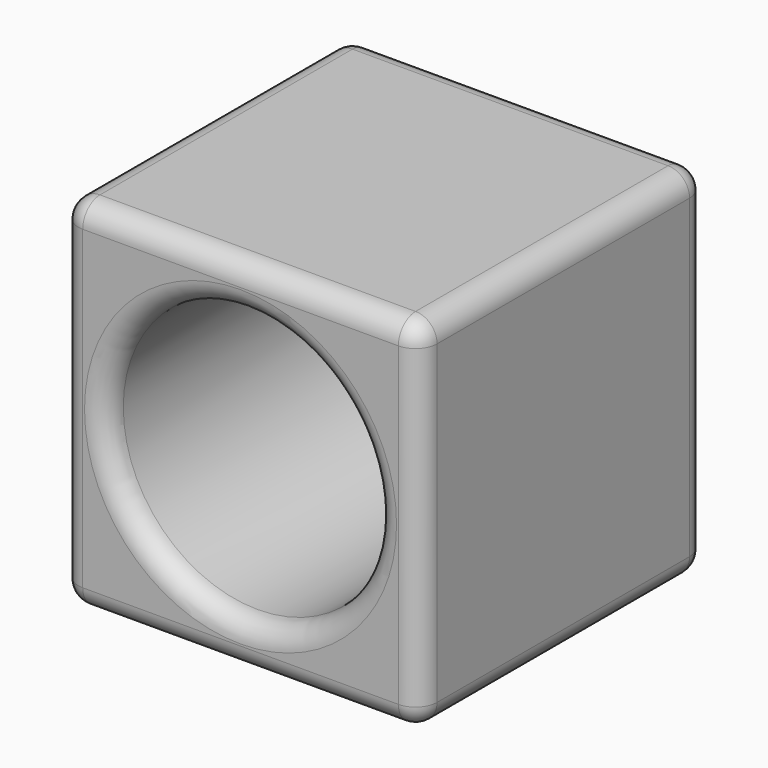
from build123d import *

# Parameters (mm, degrees)
F0_W     = 25.4
F0_H     = 25.4
F0_R     = 9.525
F1_DEPTH = 25.4
F2_R     = 1.524


with BuildPart() as f1:
    # F0 (on Front) → F1 (new body)
    with BuildSketch(Plane.XZ):
        Rectangle(F0_W, F0_H)
        Circle(F0_R, mode=Mode.SUBTRACT)
    extrude(amount=F1_DEPTH)

    # F2
    f2_edges = [f1.edges().sort_by_distance(p)[0] for p in [
        (-9.525, -25.4, 0),
        (12.7, -12.7, -12.7),
        (12.7, -12.7, 12.7),
        (-12.7, -12.7, 12.7),
        (0, -25.4, -12.7),
        (0, 0, 12.7),
        (0, -25.4, 12.7),
        (12.7, 0, 0),
        (12.7, -25.4, 0),
        (-12.7, -25.4, 0),
        (-9.525, 0, 0),
        (-12.7, -12.7, -12.7),
        (0, 0, -12.7),
        (-12.7, 0, 0),
    ]]
    fillet(f2_edges, radius=F2_R)


solid = f1.part
